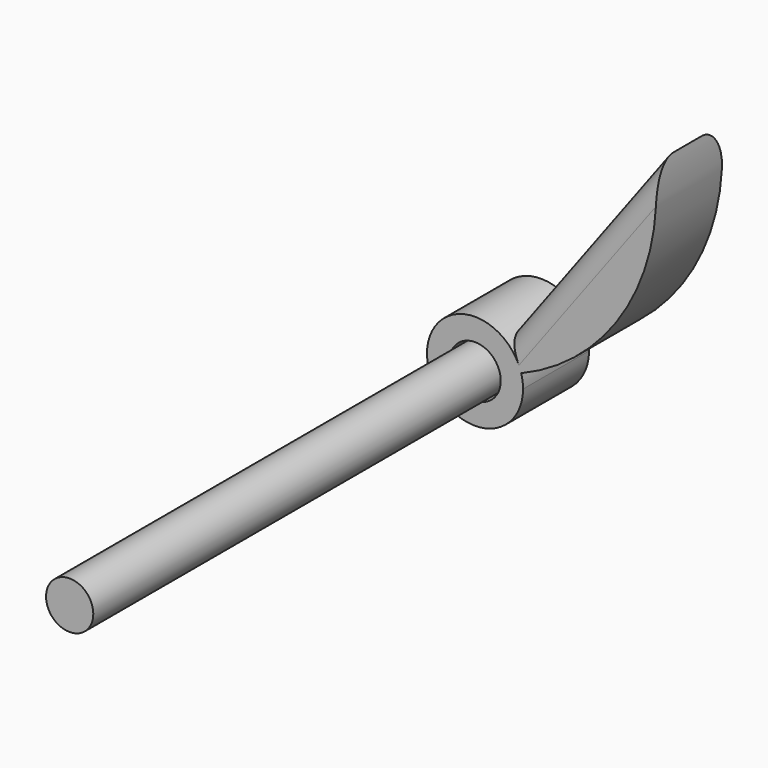
from build123d import *

# Parameters (mm, degrees)
F1_DEPTH = 3.5
F2_R     = 1.0924829463
F3_DEPTH = 59.1
F4_R     = 1
F5_R     = 1
F6_R     = 1.0026125985
F7_DEPTH = 25


with BuildPart() as f1:
    # F0 (on Front) → F1 (new body)
    with BuildSketch(Plane.XZ):
        with BuildLine():
            Line((3.3030178364, 1.6362452487), (2.0866938867, 0))
            ThreePointArc((2.0866938867, 0), (3.0818293236, 0.228166657), (4.0457910308, 0.564518241))
            ThreePointArc((4.0457910308, 0.564518241), (3.7623950759, 1.1613647098), (3.3030178364, 1.6362452487))
        make_face()
        with BuildLine():
            ThreePointArc((4.0457910308, 0.564518241), (3.0818293236, 0.228166657), (2.0866938867, 0))
            Line((2.0866938867, 0), (3.3030178364, 1.6362452487))
            ThreePointArc((3.3030178364, 1.6362452487), (0.2650744454, -0.9156664654), (4.1255029667, 0))
            ThreePointArc((4.1255029667, 0), (4.1054766277, 0.285059133), (4.0457910308, 0.564518241))
        make_face()
        with BuildLine():
            ThreePointArc((3.3030178364, 1.6362452487), (3.7623950759, 1.1613647098), (4.0457910308, 0.564518241))
            ThreePointArc((4.0457910308, 0.564518241), (8.5115261525, 4.4528066863), (9.7076622769, 10.2520165965))
            Line((9.7076622769, 10.2520165965), (3.3030178364, 1.6362452487))
        make_face()
    extrude(amount=F1_DEPTH)

    # F2 (on Front) → F3 (cut)
    with BuildSketch(Plane.XZ):
        with Locations((2.0866938867, 0)):
            Circle(F2_R)
    extrude(amount=F3_DEPTH, mode=Mode.SUBTRACT)

    # F4
    f4_edges = [f1.edges().sort_by_distance(p)[0] for p in [
        (6.50534, -3.5, 5.944131),
    ]]
    fillet(f4_edges, radius=F4_R)

    # F5
    f5_edges = [f1.edges().sort_by_distance(p)[0] for p in [
        (6.50534, 0, 5.944131),
    ]]
    fillet(f5_edges, radius=F5_R)


with BuildPart() as f7:
    # F6 (on Front) → F7 (new body)
    with BuildSketch(Plane.XZ):
        with Locations((2.0866941195, 0)):
            Circle(F6_R)
    extrude(amount=F7_DEPTH)


solid = Compound([f1.part, f7.part])
